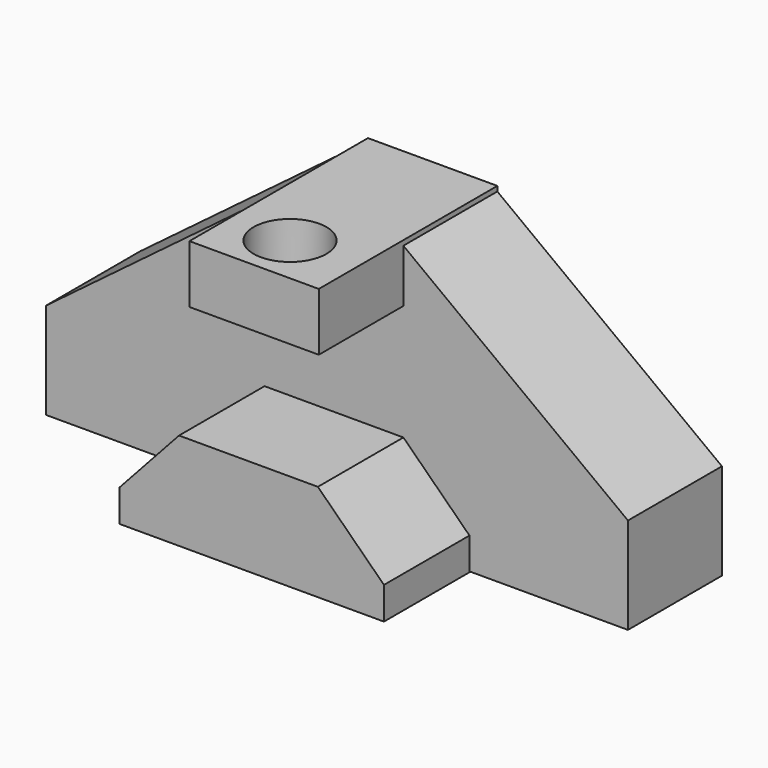
from build123d import *

# Parameters (mm, degrees)
F1_DEPTH = 25.4
F2_W     = 27.981639
F2_H     = 12.533441
F3_DEPTH = 48.26
F4_R     = 7.874
F5_DEPTH = 52.324
F7_DEPTH = 48.514


with BuildPart() as f1:
    # F0 (on Front) → F1 (new body)
    with BuildSketch(Plane.XZ):
        Polygon((6.120985, 45.324426), (-43.104272, 8.321789), (-43.104272, -12.506211), (82.729638, -12.506211), (82.729638, 8.321789), (33.519674, 45.324426), align=None)
    extrude(amount=F1_DEPTH)

    # F2 (on Front) → F3 (join)
    with BuildSketch(Plane.XZ):
        with Locations((20.170395, 39.640653)):
            Rectangle(F2_W, F2_H)
    extrude(amount=F3_DEPTH)

    # F4 (on Top) → F5 (cut)
    with BuildSketch(Plane.XY):
        with Locations((19.295966, -37.45459)):
            Circle(F4_R)
    extrude(amount=F5_DEPTH, mode=Mode.SUBTRACT)

    # F6 (on Front) → F7 (join)
    with BuildSketch(Plane.XZ):
        Polygon((-8.696082, -5.683771), (-8.696082, -12.67918), (48.453918, -12.67918), (48.453918, -5.683771), (34.161214, 8.338805), (4.138858, 8.338805), align=None)
    extrude(amount=F7_DEPTH)


solid = f1.part
